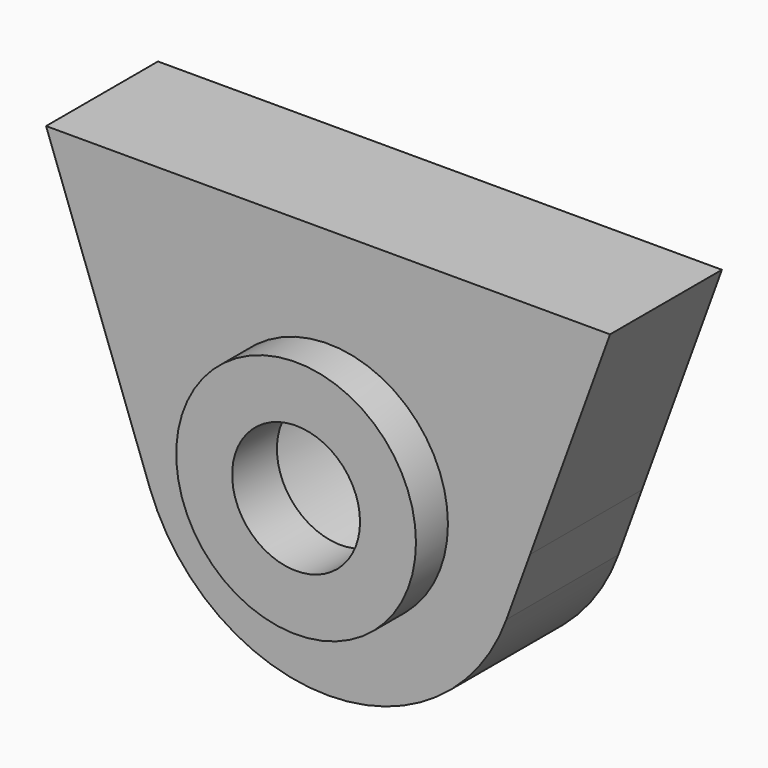
from build123d import *

# Parameters (mm, degrees)
CYLINDER011_R     = 2.85
CYLINDER011_DEPTH = 3.1
CYLINDER010_R     = 1.6
CYLINDER010_DEPTH = 4.5
CYLINDER001_R     = 3
CYLINDER001_DEPTH = 1
EXTRUDE001_DEPTH  = 3.5


with BuildPart() as bearingbracket_m3head:
    # Cylinder011 → Cylinder011 (new body)
    with BuildSketch(Plane.XZ):
        Circle(CYLINDER011_R)
    extrude(amount=CYLINDER011_DEPTH)


with BuildPart() as bearingbracket_m3cutout:
    # Cylinder010 → Cylinder010 (new body)
    with BuildSketch(Plane.XZ):
        Circle(CYLINDER010_R)
    extrude(amount=CYLINDER010_DEPTH)

    # Fusion: union bearingBracket_m3Head
    add(bearingbracket_m3head.part)


with BuildPart() as bearingbracket_m3cutout_1:
    # Fusion placement: moved
    add(bearingbracket_m3cutout.part.moved(Location((0, 3.5, 0))))


with BuildPart() as bearingbracket_spacer:
    # Cylinder001 → Cylinder001 (new body)
    with BuildSketch(Plane.XZ):
        Circle(CYLINDER001_R)
    extrude(amount=CYLINDER001_DEPTH)


with BuildPart() as bearingbracket:
    # Sketch001 → Extrude001 (new body)
    with BuildSketch(Plane.XZ):
        with BuildLine():
            ThreePointArc((-4.46354, -1.624596), (0, -4.75), (4.46354, -1.624596))
            Line((4.46354, -1.624596), (5.054844, 0))
            Line((5.054844, 0), (7.056681, 5.5))
            Line((-7.056681, 5.5), (7.056681, 5.5))
            Line((-5.054844, 0), (-7.056681, 5.5))
            Line((-4.46354, -1.624596), (-5.054844, 0))
        make_face()
    extrude(amount=-EXTRUDE001_DEPTH)

    # Fusion001: union bearingBracket_spacer
    add(bearingbracket_spacer.part)

    # Cut011: cut bearingBracket_m3Cutout
    add(bearingbracket_m3cutout_1.part, mode=Mode.SUBTRACT)


with BuildPart() as bearingbracket_1:
    # Cut011 placement: moved
    add(bearingbracket.part.moved(Location((0, 41.5, 0))))


solid = bearingbracket_1.part
